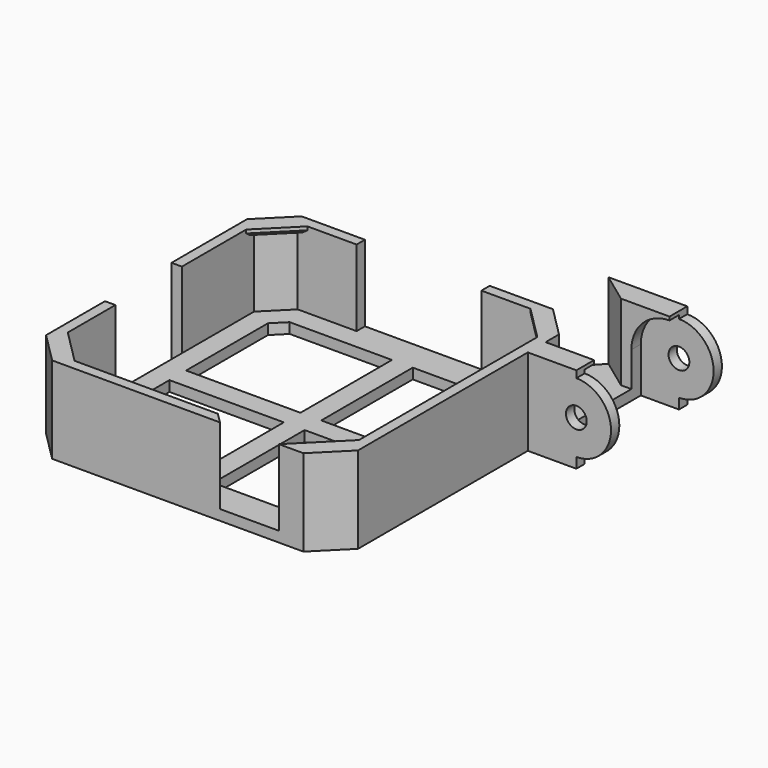
from build123d import *

# Parameters (mm, degrees)
PAD_DEPTH       = 12.5
POCKET_DEPTH    = 11
POCKET001_DEPTH = 1.5
SKETCH052_W     = 7
SKETCH052_H     = 1
PAD001_DEPTH    = 1
CHAMFER_SIZE    = 0.5
SKETCH053_W     = 7
SKETCH053_H     = 1
PAD002_DEPTH    = 1
CHAMFER001_SIZE = 0.5
SKETCH054_W     = 7
SKETCH054_H     = 1
PAD003_DEPTH    = 1
CHAMFER002_SIZE = 0.5
SKETCH055_W     = 7
SKETCH055_H     = 1
PAD004_DEPTH    = 1
CHAMFER003_SIZE = 0.5
SKETCH056_W     = 1.5
SKETCH056_H     = 12
POCKET002_DEPTH = 12.5
SKETCH057_W     = 18
SKETCH057_H     = 1.5
POCKET003_DEPTH = 11
PAD005_DEPTH    = 12.5
POCKET004_DEPTH = 20
POCKET005_DEPTH = 11
SKETCH063_R     = 1.5
POCKET006_DEPTH = 20
POCKET007_DEPTH = 17
POCKET008_DEPTH = 11
PAD006_DEPTH    = 11
PAD007_DEPTH    = 1.5


with BuildPart() as part:
    # Sketch001 → Pad (new body)
    with BuildSketch(Plane.XY):
        Polygon((-22.5, 18.12132), (-18.12132, 22.5), (18.12132, 22.5), (22.5, 18.12132), (22.5, -18.12132), (18.12132, -22.5), (-18.12132, -22.5), (-22.5, -18.12132), align=None)
    extrude(amount=PAD_DEPTH)

    # Sketch002 (on Face10 of Pad) → Pocket (cut)
    with BuildSketch(Plane.XY.offset(12.5)):
        Polygon((-21, 17.5), (-17.5, 21), (17.5, 21), (21, 17.5), (21, -17.5), (17.5, -21), (-17.5, -21), (-21, -17.5), align=None)
    extrude(amount=-POCKET_DEPTH, mode=Mode.SUBTRACT)

    # Sketch003 (on Face19 of Pocket) → Pocket001 (cut)
    with BuildSketch(Plane.XY.offset(1.5)):
        Polygon((-16.257359, 18), (-18, 16.257359), (-18, 1.5), (-1.5, 1.5), (-1.5, 18), align=None)
        Polygon((-18, -16.257359), (-16.257359, -18), (-1.5, -18), (-1.5, -1.5), (-18, -1.5), align=None)
        Polygon((16.257359, -18), (18, -16.257359), (18, -1.5), (1.5, -1.5), (1.5, -18), align=None)
        Polygon((18, 1.5), (18, 16.257359), (16.257359, 18), (1.5, 18), (1.5, 1.5), align=None)
    extrude(amount=-POCKET001_DEPTH, mode=Mode.SUBTRACT)

    # Sketch052 (on Face31 of Pocket001) → Pad001 (join)
    with BuildSketch(Plane(origin=(-19.25, 19.25, 0), x_dir=(0.707107, 0.707107, 0), z_dir=(0.707107, -0.707107, 0))):
        with Locations((0, 12)):
            Rectangle(SKETCH052_W, SKETCH052_H)
    extrude(amount=PAD001_DEPTH)

    # Chamfer
    chamfer_edges = [part.edges().sort_by_distance(p)[0] for p in [
        (-18.542893, 18.542893, 11.5),
    ]]
    chamfer(chamfer_edges, length=CHAMFER_SIZE)

    # Sketch053 (on Face8 of Chamfer) → Pad002 (join)
    with BuildSketch(Plane(origin=(19.25, 19.25, 0), x_dir=(0.707107, -0.707107, 0), z_dir=(-0.707107, -0.707107, 0))):
        with Locations((0, 12)):
            Rectangle(SKETCH053_W, SKETCH053_H)
    extrude(amount=PAD002_DEPTH)

    # Chamfer001
    chamfer001_edges = [part.edges().sort_by_distance(p)[0] for p in [
        (18.542893, 18.542893, 11.5),
    ]]
    chamfer(chamfer001_edges, length=CHAMFER001_SIZE)

    # Sketch054 (on Face28 of Chamfer001) → Pad003 (join)
    with BuildSketch(Plane(origin=(-19.25, -19.25, 0), x_dir=(-0.707107, 0.707107, 0), z_dir=(0.707107, 0.707107, 0))):
        with Locations((0, 12)):
            Rectangle(SKETCH054_W, SKETCH054_H)
    extrude(amount=PAD003_DEPTH)

    # Chamfer002
    chamfer002_edges = [part.edges().sort_by_distance(p)[0] for p in [
        (-18.542893, -18.542893, 11.5),
    ]]
    chamfer(chamfer002_edges, length=CHAMFER002_SIZE)

    # Sketch055 (on Face6 of Chamfer002) → Pad004 (join)
    with BuildSketch(Plane(origin=(19.25, -19.25, 0), x_dir=(-0.707107, -0.707107, 0), z_dir=(-0.707107, 0.707107, 0))):
        with Locations((0, 12)):
            Rectangle(SKETCH055_W, SKETCH055_H)
    extrude(amount=PAD004_DEPTH)

    # Chamfer003
    chamfer003_edges = [part.edges().sort_by_distance(p)[0] for p in [
        (18.542893, -18.542893, 11.5),
    ]]
    chamfer(chamfer003_edges, length=CHAMFER003_SIZE)

    # Sketch056 (on Face7 of Chamfer003) → Pocket002 (cut)
    with BuildSketch(Plane.XY.offset(12.5)):
        with Locations((-21.75, -1.5)):
            Rectangle(SKETCH056_W, SKETCH056_H)
    extrude(amount=-POCKET002_DEPTH, mode=Mode.SUBTRACT)

    # Sketch057 (on Face7 of Pocket002) → Pocket003 (cut)
    with BuildSketch(Plane.XY.offset(12.5)):
        with Locations((0, 21.75)):
            Rectangle(SKETCH057_W, SKETCH057_H)
    extrude(amount=-POCKET003_DEPTH, mode=Mode.SUBTRACT)

    # Sketch058 → Pad005 (join)
    with BuildSketch(Plane.XY):
        Polygon((22.5, 12.5), (34.5, 12.5), (34.5, 32.5), (18.12132, 32.5), (18.12132, 22.5), (22.5, 18.12132), align=None)
    extrude(amount=PAD005_DEPTH)

    # Sketch059 (on Face71 of Pad005) → Pocket004 (cut)
    with BuildSketch(Plane.XZ.offset(-12.5)):
        with BuildLine():
            ThreePointArc((29.5, 1.5), (34.5, 6.5), (29.5, 11.5))
            Line((29.5, 11.5), (29.5, 12.5))
            Line((29.5, 12.5), (35.5, 12.5))
            Line((35.5, 12.5), (35.5, 0))
            Line((35.5, 0), (29.5, 0))
            Line((29.5, 0), (29.5, 1.5))
        make_face()
    extrude(amount=-POCKET004_DEPTH, mode=Mode.SUBTRACT)

    # Sketch060 (on Face44 of Pocket004) → Pocket005 (cut)
    with BuildSketch(Plane.XY.offset(12.5)):
        Polygon((18.12132, 22.5), (18.12132, 32.5), (22.5, 32.5), (22.5, 29.3), (34.5, 29.3), (34.5, 15.7), (22.5, 15.7), (22.5, 18.12132), align=None)
    extrude(amount=-POCKET005_DEPTH, mode=Mode.SUBTRACT)

    # Sketch063 → Pocket006 (cut)
    with BuildSketch(Plane.XZ.offset(-12.5)):
        with Locations((29.5, 6.5)):
            Circle(SKETCH063_R)
    extrude(amount=-POCKET006_DEPTH, mode=Mode.SUBTRACT)

    # Sketch064 (on Face90 of Pocket006) → Pocket007 (cut)
    with BuildSketch(Plane.XZ.offset(-31)):
        with BuildLine():
            ThreePointArc((29.5, 1), (33.389087, 10.389087), (24, 6.5))
            Line((24, 6.5), (24, 0))
            Line((24, 0), (29.5, 0))
            Line((29.5, 0), (29.5, 1))
        make_face()
    extrude(amount=POCKET007_DEPTH, mode=Mode.SUBTRACT)

    # Sketch065 (on Face7 of Pocket007) → Pocket008 (cut)
    with BuildSketch(Plane.XY.offset(12.5)):
        Polygon((16.085786, -21), (14.585786, -22.5), (6.085786, -22.5), (4.585786, -21), align=None)
    extrude(amount=-POCKET008_DEPTH, mode=Mode.SUBTRACT)

    # Sketch066 (on Face75 of Pocket008) → Pad006 (join)
    with BuildSketch(Plane.XY.offset(1.5)):
        Polygon((18.12132, 32.5), (22.5, 32.5), (22.5, 29.3), align=None)
    extrude(amount=PAD006_DEPTH)

    # Sketch067 → Pad007 (join)
    with BuildSketch(Plane.XY):
        Polygon((18.12132, 32.5), (9, 22.5), (18.12132, 22.5), align=None)
    extrude(amount=PAD007_DEPTH)


solid = part.part
